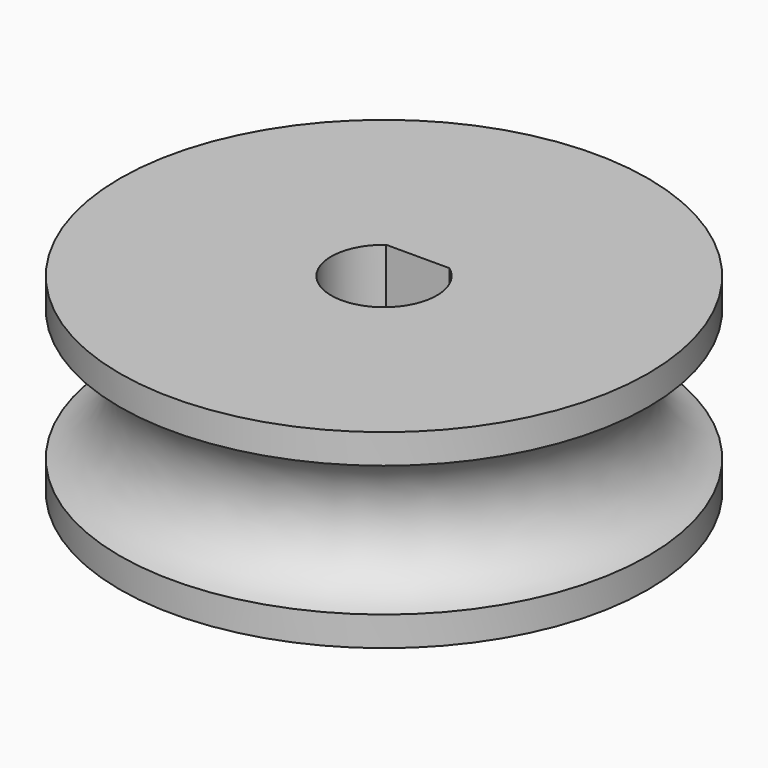
from build123d import *

# Parameters (mm, degrees)
F3_DEPTH = 9.001


with BuildPart() as f1:
    # F0 (on Front) → F1 (revolve)
    with BuildSketch(Plane.XZ):
        with BuildLine():
            Line((-12.5, 0), (0, 0))
            Line((0, 0), (0, 9))
            Line((0, 9), (-12.5, 9))
            Line((-12.5, 9), (-12.5, 7.6))
            ThreePointArc((-12.5, 7.6), (-10.1, 4.5), (-12.5, 1.4))
            Line((-12.5, 1.4), (-12.5, 0))
        make_face()
    revolve(axis=Axis((0, 0, 4.5), (0, 0, 1)))

    # F2 (on face) → F3 (cut, through all)
    with BuildSketch(Plane.XY.offset(9)):
        with BuildLine():
            Line((1.5, 2), (-1.5, 2))
            ThreePointArc((-1.5, 2), (0, -2.5), (1.5, 2))
        make_face()
    extrude(amount=-F3_DEPTH, mode=Mode.SUBTRACT)


solid = f1.part
